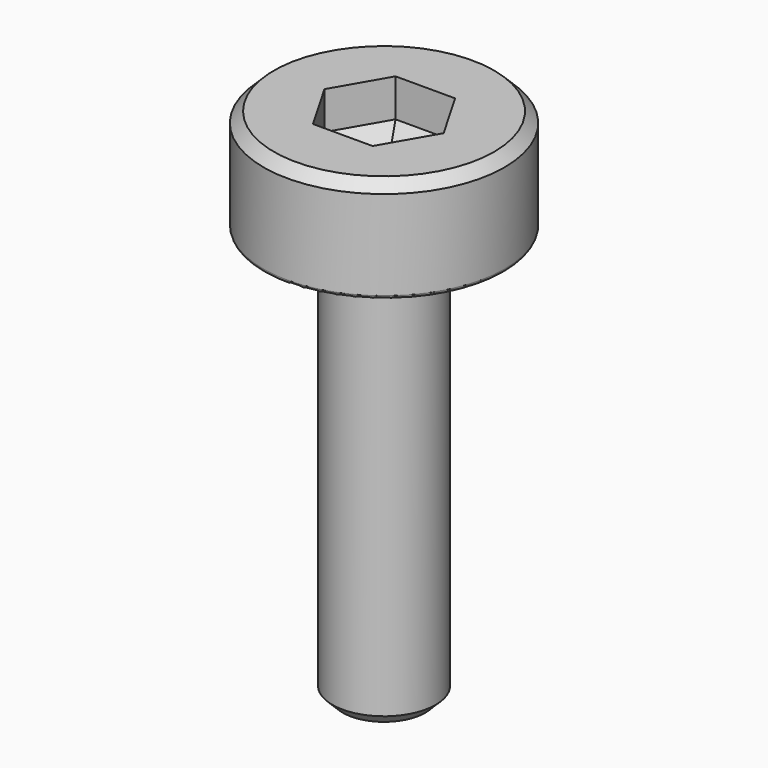
from build123d import *

# Parameters (mm, degrees)
F3_DEPTH = 1.6
F4_SIZE2 = 0.8660254038
F4_SIZE  = 0.5
F5_SIZE  = 0.3
F6_R     = 0.1


with BuildPart() as f1:
    # F0 (on Front) → F1 (revolve)
    with BuildSketch(Plane.XZ):
        Polygon((3.5, 0), (0, 0), (0, -15), (1.5, -15), (1.5, -3), (3.5, -3), align=None)
    revolve(axis=Axis((0, 0, -7.5), (0, 0, 1)))

    # F2 (on face) → F3 (cut)
    with BuildSketch(Plane.XY):
        Polygon((0.8660254038, 1.5), (-0.8660254038, 1.5), (-1.7320508076, 0), (-0.8660254038, -1.5), (0.8660254038, -1.5), (1.7320508076, 0), align=None)
    extrude(amount=-F3_DEPTH, mode=Mode.SUBTRACT)

    # F4
    f4_edges = [f1.edges().sort_by_distance(p)[0] for p in [
        (0, 1.5, -1.6),
        (-1.299038, 0.75, -1.6),
        (-1.299038, -0.75, -1.6),
        (0, -1.5, -1.6),
        (1.299038, -0.75, -1.6),
        (1.299038, 0.75, -1.6),
    ]]
    chamfer(f4_edges, length=F4_SIZE, length2=F4_SIZE2)

    # F5
    f5_edges = [f1.edges().sort_by_distance(p)[0] for p in [
        (-3.5, 0, 0),
        (-1.5, 0, -15),
    ]]
    chamfer(f5_edges, length=F5_SIZE)

    # F6
    f6_edges = [f1.edges().sort_by_distance(p)[0] for p in [
        (-3.5, 0, -3),
    ]]
    fillet(f6_edges, radius=F6_R)


with BuildPart() as f7_1:
    # F7: copy of F1
    add(f1.part)


solid = Compound([f1.part, f7_1.part])
